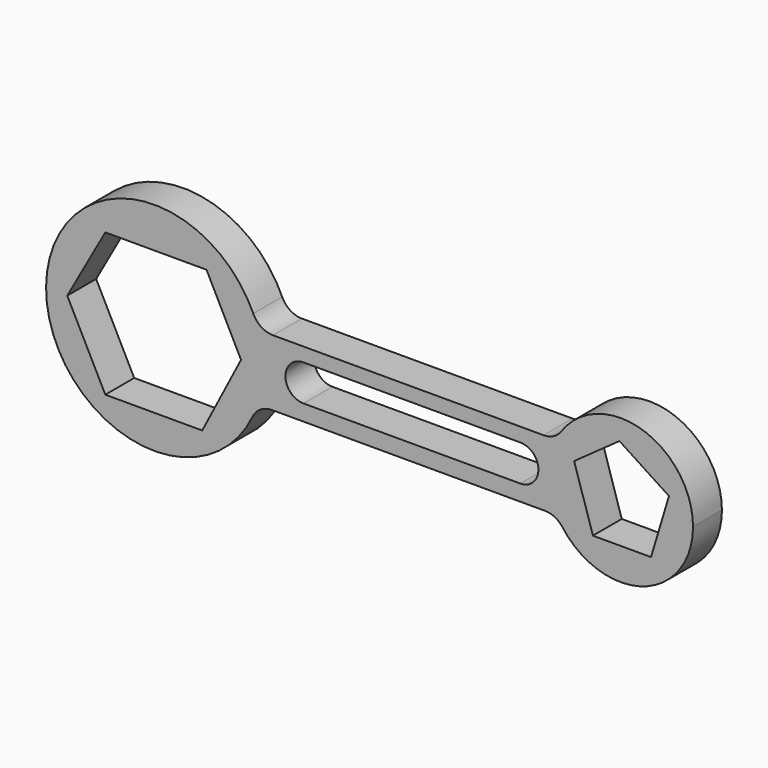
from build123d import *

# Parameters (mm, degrees)
F1_DEPTH = 254


with BuildPart() as f1:
    # F0 (on Front) → F1 (new body)
    with BuildSketch(Plane.XZ):
        with BuildLine():
            ThreePointArc((3784.6, 0), (3428.8107, 484.660606), (2859.812981, 290.435158))
            ThreePointArc((2859.812981, 290.435158), (2768.644923, -6.755729), (2867.684527, -301.416881))
            ThreePointArc((2867.684527, -301.416881), (3435.242585, -482.593545), (3784.6, 0))
        make_face()
        Polygon((2949.534655, 135.363728), (3267.460346, 362.453431), (3615.664482, 135.363728), (3489.503622, -283.490568), (3080.742121, -283.490568), align=None, mode=Mode.SUBTRACT)
        with BuildLine():
            ThreePointArc((694.007834, 314.638088), (744.808019, 160.95035), (762, 0))
            ThreePointArc((762, 0), (743.395462, -167.35348), (688.490322, -326.534954))
            ThreePointArc((688.490322, -326.534954), (744.723748, -263.042595), (826.188387, -239.441945))
            Line((826.188387, -239.441945), (2745.009885, -239.441945))
            ThreePointArc((2745.009885, -239.441945), (2813.730262, -255.81522), (2867.684527, -301.416881))
            ThreePointArc((2867.684527, -301.416881), (2768.644923, -6.755729), (2859.812981, 290.435158))
            ThreePointArc((2859.812981, 290.435158), (2805.30015, 242.464899), (2734.776876, 225.165705))
            Line((2734.776876, 225.165705), (832.809401, 225.165705))
            ThreePointArc((832.809401, 225.165705), (750.239458, 249.472128), (694.007834, 314.638088))
        make_face()
        with BuildLine():
            ThreePointArc((1047.027707, -127), (920.027707, 0), (1047.027707, 127))
            Line((1047.027707, 127), (2571.027707, 127))
            ThreePointArc((2571.027707, 127), (2698.027707, 0), (2571.027707, -127))
            Line((2571.027707, -127), (1047.027707, -127))
        make_face(mode=Mode.SUBTRACT)
        with BuildLine():
            ThreePointArc((688.490322, -326.534954), (743.395462, -167.35348), (762, 0))
            ThreePointArc((762, 0), (744.808019, 160.95035), (694.007834, 314.638088))
            ThreePointArc((694.007834, 314.638088), (-761.971788, 6.557026), (688.490322, -326.534954))
        make_face()
        Polygon((-613.250196, 0), (-345.789075, 478.521496), (365.758657, 478.521496), (607.987642, 0), (335.480034, -525.719643), (-345.789075, -525.719643), align=None, mode=Mode.SUBTRACT)
    extrude(amount=F1_DEPTH)


solid = f1.part
